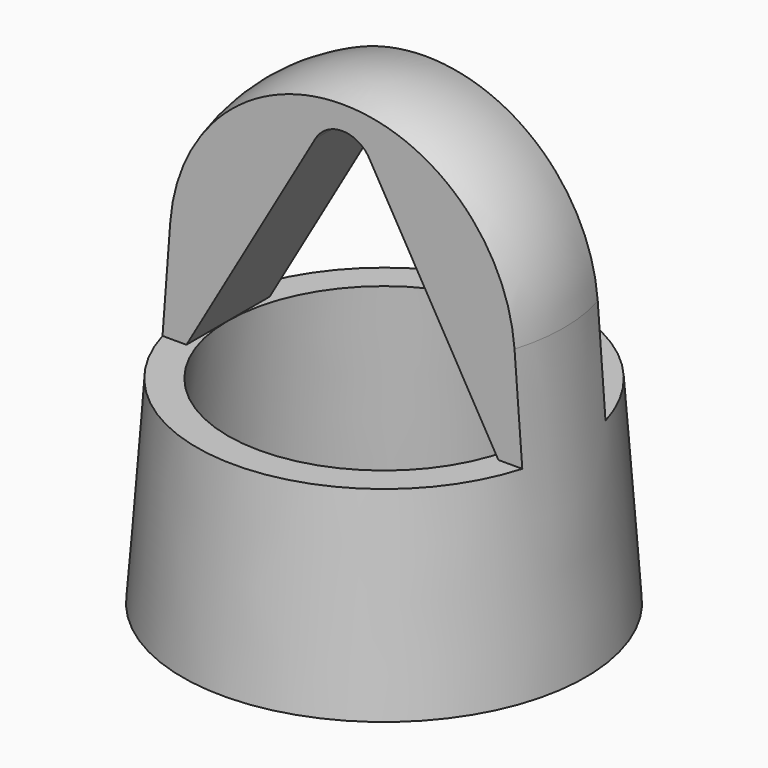
from build123d import *

# Parameters (mm, degrees)
F2_W          = 40
F2_H          = 25.9671732676
F3_DEPTH      = 19.376
F3_DEPTH_BACK = 19.376
F4_DEPTH      = 19.376
F4_DEPTH_BACK = 19.376


with BuildPart() as f1:
    # F0 (on Front) → F1 (revolve)
    with BuildSketch(Plane.XZ):
        with BuildLine():
            Line((-18, 19), (-19.375, 0))
            Line((-19.375, 0), (-16.3671544762, 0))
            Line((-16.3671544762, 0), (-14.9921544762, 19))
            Line((-14.9921544762, 19), (-2.5980762114, 40.4671732676))
            ThreePointArc((-2.5980762114, 40.4671732676), (-1.5, 41.565249479), (0, 41.9671732676))
            Line((0, 41.9671732676), (0, 44.9671732676))
            ThreePointArc((0, 44.9671732676), (-11.8033499729, 40.3259888916), (-17.2843902722, 28.8884253296))
            Line((-17.2843902722, 28.8884253296), (-18, 19))
        make_face()
        with BuildLine():
            Line((-18, 19), (-19.375, 0))
            Line((-19.375, 0), (-16.3671544762, 0))
            Line((-16.3671544762, 0), (-14.9921544762, 19))
            Line((-14.9921544762, 19), (-2.5980762114, 40.4671732676))
            ThreePointArc((-2.5980762114, 40.4671732676), (-1.5, 41.565249479), (0, 41.9671732676))
            Line((0, 41.9671732676), (0, 44.9671732676))
            ThreePointArc((0, 44.9671732676), (-11.8033499729, 40.3259888916), (-17.2843902722, 28.8884253296))
            Line((-17.2843902722, 28.8884253296), (-18, 19))
        make_face()
    revolve(axis=Axis((0, 0, 30.4835866338), (0, 0, 1)))

    # F2 (on Right) → F3 (cut, two sides)
    with BuildSketch(Plane.YZ) as f3_sk:
        with Locations((-25, 31.9835866338)):
            Rectangle(F2_W, F2_H)
        with Locations((25, 31.9835866338)):
            Rectangle(F2_W, F2_H)
    extrude(amount=F3_DEPTH, mode=Mode.SUBTRACT)
    extrude(f3_sk.sketch, amount=-F3_DEPTH_BACK, mode=Mode.SUBTRACT)

    # F0 (on Front) → F4 (cut, two sides)
    with BuildSketch(Plane.XZ) as f4_sk:
        with BuildLine():
            Line((-2.5980762114, 40.4671732676), (-14.9921544762, 19))
            Line((-14.9921544762, 19), (0, 19))
            Line((0, 19), (0, 41.9671732676))
            ThreePointArc((0, 41.9671732676), (-1.5, 41.565249479), (-2.5980762114, 40.4671732676))
        make_face()
        with BuildLine():
            Line((0, 41.9671732676), (0, 19))
            Line((0, 19), (14.9921544762, 19))
            Line((14.9921544762, 19), (2.5980762114, 40.4671732676))
            ThreePointArc((2.5980762114, 40.4671732676), (1.5, 41.565249479), (0, 41.9671732676))
        make_face()
    extrude(amount=-F4_DEPTH, mode=Mode.SUBTRACT)
    extrude(f4_sk.sketch, amount=F4_DEPTH_BACK, mode=Mode.SUBTRACT)


solid = f1.part
